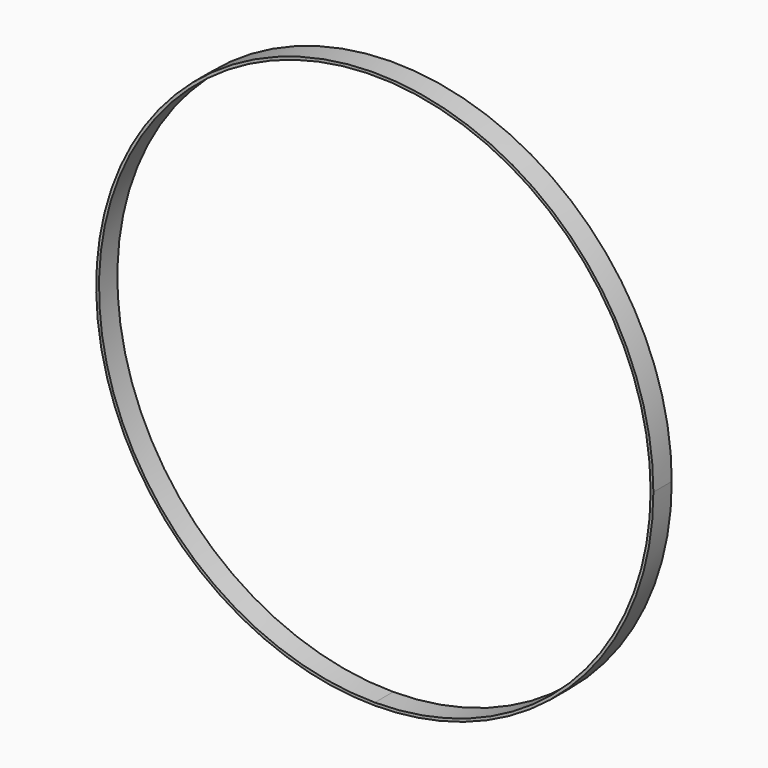
from build123d import *

# Parameters (mm, degrees)
F1_DEPTH = 25


with BuildPart() as f1:
    # F0 (on Front) → F1 (new body)
    with BuildSketch(Plane.XZ):
        with BuildLine():
            ThreePointArc((70.7279, -294.629537), (237.949106, -187.587908), (303, 0))
            ThreePointArc((303, 0), (-187.587908, 237.949105), (-70.727899, -294.629537))
            ThreePointArc((-70.727899, -294.629537), (0, -303), (70.7279, -294.629537))
        make_face()
        with BuildLine():
            ThreePointArc((0, -300), (-212.132034, 212.132034), (300, 0))
            ThreePointArc((300, 0), (212.132034, -212.132034), (0, -300))
        make_face(mode=Mode.SUBTRACT)
    extrude(amount=F1_DEPTH)


solid = f1.part
